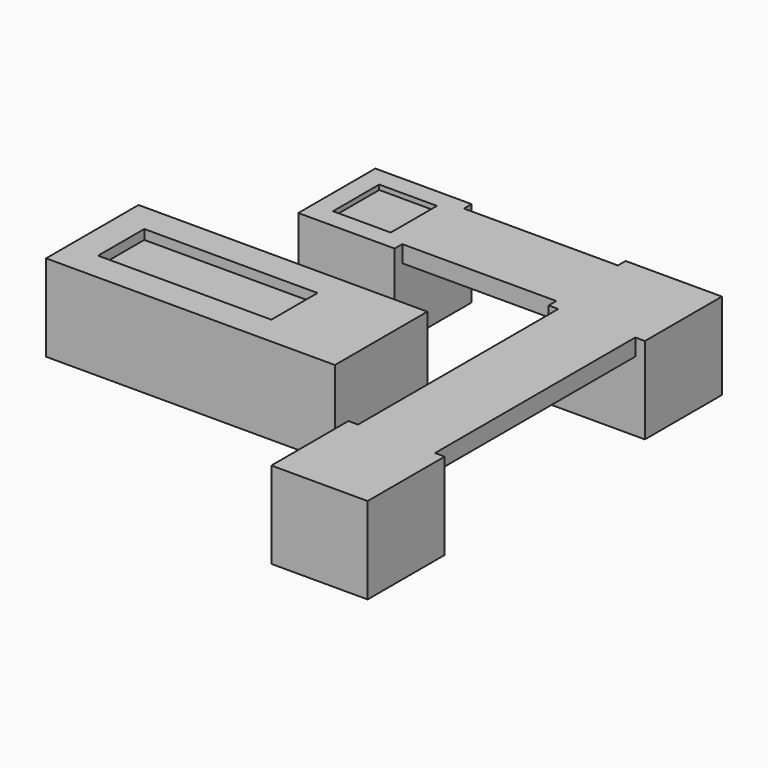
from build123d import *

# Parameters (mm, degrees)
F0_W     = 508
F0_H     = 508
F0_W_2   = 1524
F0_H_2   = 609.6
F1_DEPTH = 457.2
F2_W     = 406.4
F2_H     = 1371.6
F2_W_2   = 914.4
F2_H_2   = 406.4
F3_DEPTH = 88.9
F2_W_3   = 304.8
F2_H_3   = 304.8
F4_DEPTH = 25.4
F5_DEPTH = 50.8


with BuildPart() as f1:
    # F0 (on Top) → F1 (new body)
    with BuildSketch(Plane.XY):
        with Locations((-254, 254)):
            Rectangle(F0_W, F0_H)
        with Locations((-254, 2082.8)):
            Rectangle(F0_W, F0_H)
        with Locations((-1574.8, 2082.8)):
            Rectangle(F0_W, F0_H)
        with Locations((-1625.6, 1168.4)):
            Rectangle(F0_W_2, F0_H_2)
    extrude(amount=F1_DEPTH)

    # F2 (on face) → F3 (join)
    with BuildSketch(Plane.XY.offset(457.2)):
        with Locations((-254, 1193.8)):
            Rectangle(F2_W, F2_H)
        with Locations((-914.4, 2082.8)):
            Rectangle(F2_W_2, F2_H_2)
    extrude(amount=-F3_DEPTH)

    # F2 (on face) → F4 (cut)
    with BuildSketch(Plane.XY.offset(457.2)):
        with Locations((-1574.8, 2082.8)):
            Rectangle(F2_W_3, F2_H_3)
    extrude(amount=-F4_DEPTH, mode=Mode.SUBTRACT)

    # F2 (on face) → F5 (cut)
    with BuildSketch(Plane.XY.offset(457.2)):
        with Locations((-1778, 1168.4)):
            Rectangle(F2_W_2, F2_H_3)
    extrude(amount=-F5_DEPTH, mode=Mode.SUBTRACT)


solid = f1.part
